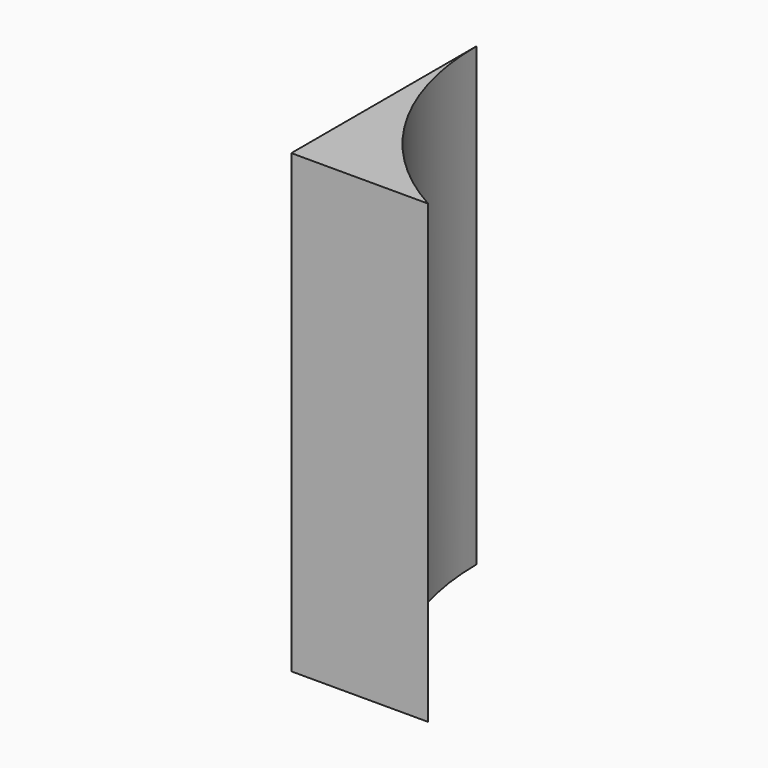
from build123d import *

# Parameters (mm, degrees)
F1_DEPTH = 50
F2_DEPTH = 50


with BuildPart() as f1:
    # F0 (on Top) → F1 (new body)
    with BuildSketch(Plane.XY):
        with BuildLine():
            ThreePointArc((30, 0), (8.059916, 21.301525), (0, 50.8))
            Line((0, 50.8), (0, 0))
            Line((0, 0), (30, 0))
        make_face()
    extrude(amount=F1_DEPTH)

    # F1_face (on face) → F2 (join)
    with BuildSketch(Plane(origin=(8.387747, 11.952737, 0), x_dir=(1, 0, 0), z_dir=(0, 0, -1))):
        with BuildLine():
            ThreePointArc((-8.387747, -38.847263), (-0.327831, -9.348788), (21.612253, 11.952737))
            Line((21.612253, 11.952737), (-8.387747, 11.952737))
            Line((-8.387747, 11.952737), (-8.387747, -38.847263))
        make_face()
    extrude(amount=F2_DEPTH)


solid = f1.part
